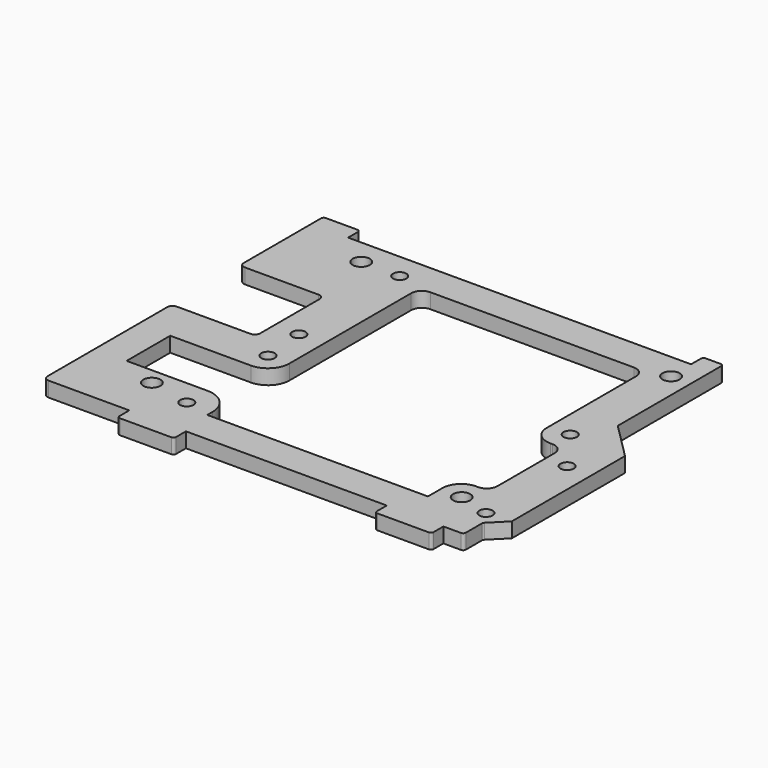
from build123d import *

# Parameters (mm, degrees)
SKETCH_R     = 1.6
PAD_DEPTH    = 2.8
SKETCH001_R  = 1.25
HOLE_DEPTH   = 2.801
POCKET_DEPTH = 2.801


with BuildPart() as part:
    # Sketch → Pad (new body)
    with BuildSketch(Plane.XY):
        with BuildLine():
            Line((1, 0), (8, 0))
            Line((8, 0), (8, -2.3))
            ThreePointArc((8, -2.3), (8.146447, -2.653553), (8.5, -2.8))
            Line((8.5, -2.8), (18.1, -2.8))
            ThreePointArc((18.1, -2.8), (18.453553, -2.653553), (18.6, -2.3))
            Line((18.6, -2.3), (18.6, 0))
            Line((18.6, 0), (56.2, 0))
            Line((56.2, 0), (56.2, -2.3))
            ThreePointArc((56.2, -2.3), (56.346447, -2.653553), (56.7, -2.8))
            Line((56.7, -2.8), (66.3, -2.8))
            ThreePointArc((66.3, -2.8), (66.653553, -2.653553), (66.8, -2.3))
            Line((66.8, -2.3), (66.8, 0))
            Line((66.8, 0), (70.1, 0))
            ThreePointArc((70.1, 0), (70.453553, 0.146447), (70.6, 0.5))
            Line((70.6, 0.5), (70.6, 4.292893))
            ThreePointArc((70.746447, 4.646447), (70.63806, 4.484235), (70.6, 4.292893))
            Line((70.746447, 4.646447), (73.6, 7.5))
            Line((73.6, 7.5), (73.6, 34))
            Line((73.6, 34), (66.8, 40.8))
            Line((66.8, 40.8), (66.8, 65))
            ThreePointArc((66.8, 65), (66.653553, 65.353553), (66.3, 65.5))
            Line((66.3, 65.5), (63.5, 65.5))
            ThreePointArc((63.5, 65.5), (63.146447, 65.353553), (63, 65))
            Line((63, 65), (63, 62.7))
            Line((63, 62.7), (-1.2, 62.7))
            Line((-1.2, 62.7), (-1.2, 65))
            ThreePointArc((-1.2, 65), (-1.346447, 65.353553), (-1.7, 65.5))
            Line((-1.7, 65.5), (-7.6, 65.5))
            ThreePointArc((-7.6, 65.5), (-7.953553, 65.353553), (-8.1, 65))
            Line((-8.1, 65), (-8.1, 46.9))
            ThreePointArc((-8.1, 46.9), (-7.807107, 46.192893), (-7.1, 45.9))
            Line((-7.1, 45.9), (6.7, 45.9))
            ThreePointArc((7.7, 44.9), (7.407107, 45.607107), (6.7, 45.9))
            Line((7.7, 44.9), (7.7, 31))
            ThreePointArc((6.7, 30), (7.407107, 30.292893), (7.7, 31))
            Line((6.7, 30), (-7.1, 30))
            ThreePointArc((-7.1, 30), (-7.807107, 29.707107), (-8.1, 29))
            Line((-8.1, 29), (-8.1, 1))
            ThreePointArc((-8.1, 1), (-7.807107, 0.292893), (-7.1, 0))
            Line((-7.1, 0), (1, 0))
        make_face()
        with Locations((5.1, 57.9)):
            Circle(SKETCH_R, mode=Mode.SUBTRACT)
        with Locations((63.1, 57.9)):
            Circle(SKETCH_R, mode=Mode.SUBTRACT)
        with Locations((5.1, 8.9)):
            Circle(SKETCH_R, mode=Mode.SUBTRACT)
        with Locations((63.1, 8.9)):
            Circle(SKETCH_R, mode=Mode.SUBTRACT)
    extrude(amount=PAD_DEPTH)

    # Sketch001 (on Face46 of Pad) → Hole (cut, through all)
    with BuildSketch(Plane.XY.offset(2.8)):
        with Locations((12.3, 57.9)):
            Circle(SKETCH001_R)
        with Locations((12.3, 34.3)):
            Circle(SKETCH001_R)
        with Locations((63.1, 34.3)):
            Circle(SKETCH001_R)
        with Locations((63.1, 57.9)):
            Circle(SKETCH001_R)
        with Locations((13, 26.2)):
            Circle(SKETCH001_R)
        with Locations((13, 7.2)):
            Circle(SKETCH001_R)
        with Locations((69, 7.2)):
            Circle(SKETCH001_R)
        with Locations((69, 26.2)):
            Circle(SKETCH001_R)
    extrude(amount=-HOLE_DEPTH, mode=Mode.SUBTRACT)

    # Sketch002 (on Face5 of Hole) → Pocket (cut, through all)
    with BuildSketch(Plane.XY.offset(2.8)):
        with BuildLine():
            Line((57.1, 56.7), (19, 56.7))
            ThreePointArc((19, 56.7), (17.585786, 56.114214), (17, 54.7))
            Line((17, 54.7), (17, 26.2))
            ThreePointArc((13, 22.2), (15.828427, 23.371573), (17, 26.2))
            Line((-2.1, 22.2), (13, 22.2))
            Line((-2.1, 12), (-2.1, 22.2))
            Line((13, 12), (-2.1, 12))
            ThreePointArc((17.8, 7.2), (16.394113, 10.594113), (13, 12))
            Line((17.8, 7.2), (17.8, 6))
            Line((17.8, 6), (59.1, 6))
            Line((59.1, 6), (59.1, 9.4))
            ThreePointArc((62.6, 12.9), (60.125126, 11.874874), (59.1, 9.4))
            Line((63, 12.9), (62.6, 12.9))
            ThreePointArc((63, 12.9), (64.414214, 13.485786), (65, 14.9))
            Line((65, 28.3), (65, 14.9))
            ThreePointArc((65, 28.3), (64.414214, 29.714214), (63, 30.3))
            Line((62.6, 30.3), (63, 30.3))
            ThreePointArc((59.1, 33.8), (60.125126, 31.325126), (62.6, 30.3))
            Line((59.1, 33.8), (59.1, 54.7))
            ThreePointArc((59.1, 54.7), (58.514214, 56.114214), (57.1, 56.7))
        make_face()
    extrude(amount=-POCKET_DEPTH, mode=Mode.SUBTRACT)


solid = part.part
